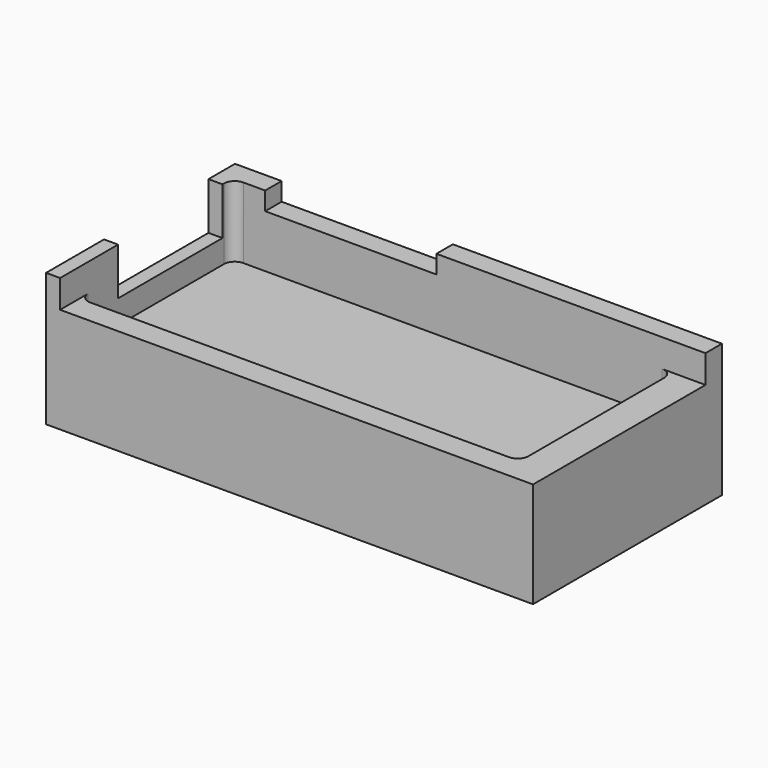
from build123d import *

# Parameters (mm, degrees)
F0_W      = 226.3691648841
F0_H      = 109.7707115114
F1_DEPTH  = 62
F2_W      = 219.8443636298
F2_H      = 100.2121046185
F3_DEPTH  = 13
F4_W      = 6.5248012543
F4_H      = 60.6752280146
F5_DEPTH  = 22
F7_DEPTH  = 20
F8_R      = 5
F9_R      = 5
F10_R     = 5
F11_R     = 5
F12_W     = 79.6035556123
F12_H     = 8.4695416391
F13_DEPTH = 25


with BuildPart() as f1:
    # F0 (on Top) → F1 (new body)
    with BuildSketch(Plane.XY):
        with Locations((-2.5108121336, -0.4434902221)):
            Rectangle(F0_W, F0_H)
    extrude(amount=F1_DEPTH)

    # F2 (on face) → F3 (cut)
    with BuildSketch(Plane.XY.offset(62)):
        with Locations((0.7515884936, -5.2227936685)):
            Rectangle(F2_W, F2_H)
    extrude(amount=-F3_DEPTH, mode=Mode.SUBTRACT)

    # F4 (on face) → F5 (cut)
    with BuildSketch(Plane.XY.offset(62)):
        with Locations((-112.4329939485, 8.6751645431)):
            Rectangle(F4_W, F4_H)
    extrude(amount=-F5_DEPTH, mode=Mode.SUBTRACT)

    # F6 (on face) → F7 (cut)
    with BuildSketch(Plane.XY.offset(49)):
        Polygon((95.4916924238, 44.8832586408), (-109.1705933213, 44.8832586408), (-109.1705933213, 39.0127785504), (-109.1705933213, -21.6624494642), (-109.1705933213, -44.0085157752), (95.4916924238, -44.0085157752), align=None)
    extrude(amount=-F7_DEPTH, mode=Mode.SUBTRACT)

    # F8
    f8_edges = [f1.edges().sort_by_distance(p)[0] for p in [
        (95.491692, 44.883259, 39),
    ]]
    fillet(f8_edges, radius=F8_R)

    # F9
    f9_edges = [f1.edges().sort_by_distance(p)[0] for p in [
        (95.491692, -44.008516, 39),
    ]]
    fillet(f9_edges, radius=F9_R)

    # F10
    f10_edges = [f1.edges().sort_by_distance(p)[0] for p in [
        (-109.170593, -44.008516, 39),
    ]]
    fillet(f10_edges, radius=F10_R)

    # F11
    f11_edges = [f1.edges().sort_by_distance(p)[0] for p in [
        (-109.170593, 44.883259, 45.5),
    ]]
    fillet(f11_edges, radius=F11_R)

    # F12 (on face) → F13 (cut)
    with BuildSketch(Plane(origin=(0, 54.4418655336, 0), x_dir=(-1, 0, 0), z_dir=(0, 1, 0))):
        with Locations((54.2112276889, 57.7652291805)):
            Rectangle(F12_W, F12_H)
    extrude(amount=-F13_DEPTH, mode=Mode.SUBTRACT)


solid = f1.part
